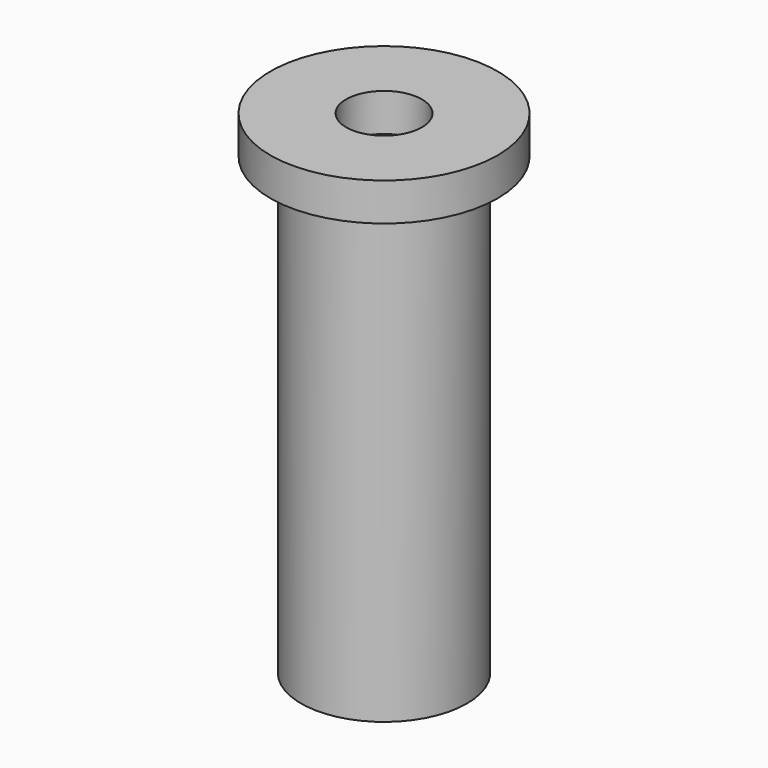
from build123d import *

# Parameters (mm, degrees)
F0_R     = 13.9065
F0_R_2   = 11.1125
F1_DEPTH = 76.2
F2_R     = 19.05
F2_R_2   = 6.35
F3_DEPTH = 6.35


with BuildPart() as f1:
    # F0 (on Top) → F1 (new body)
    with BuildSketch(Plane.XY):
        Circle(F0_R)
        Circle(F0_R_2, mode=Mode.SUBTRACT)
    extrude(amount=-F1_DEPTH)

    # F2 (on Top) → F3 (join)
    with BuildSketch(Plane.XY):
        Circle(F2_R)
        Circle(F2_R_2, mode=Mode.SUBTRACT)
    extrude(amount=F3_DEPTH)


solid = f1.part
